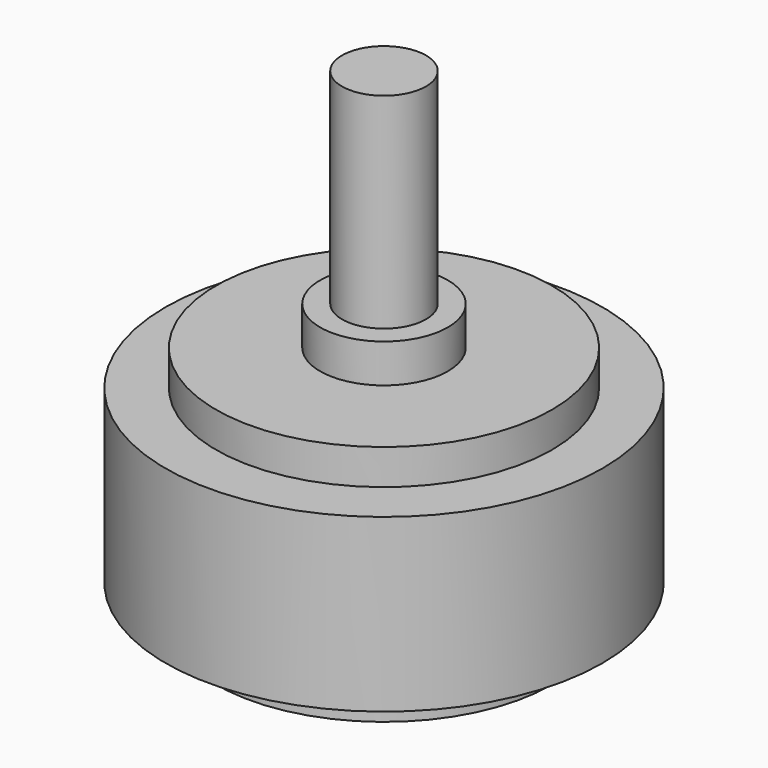
from build123d import *

# Parameters (mm, degrees)
F0_R          = 6.5
F1_DEPTH      = 5.1
F2_R          = 5
F3_DEPTH      = 6.15
F3_DEPTH_BACK = 1.05
F4_R          = 1.9
F5_DEPTH      = 7.3
F6_R          = 2.5
F7_DEPTH      = 2
F8_R          = 1.25
F9_DEPTH      = 13.4


with BuildPart() as f1:
    # F0 (on Top) → F1 (new body)
    with BuildSketch(Plane.XY):
        Circle(F0_R)
    extrude(amount=F1_DEPTH)

    # F2 (on Top) → F3 (join, two sides)
    with BuildSketch(Plane.XY) as f3_sk:
        Circle(F2_R)
    extrude(amount=F3_DEPTH)
    extrude(f3_sk.sketch, amount=-F3_DEPTH_BACK)

    # F4 (on Top) → F5 (join)
    with BuildSketch(Plane.XY):
        Circle(F4_R)
    extrude(amount=F5_DEPTH)

    # F6 (on Top) → F7 (join)
    with BuildSketch(Plane.XY):
        Circle(F6_R)
    extrude(amount=-F7_DEPTH)

    # F8 (on Top) → F9 (join)
    with BuildSketch(Plane.XY):
        Circle(F8_R)
    extrude(amount=F9_DEPTH)


solid = f1.part
